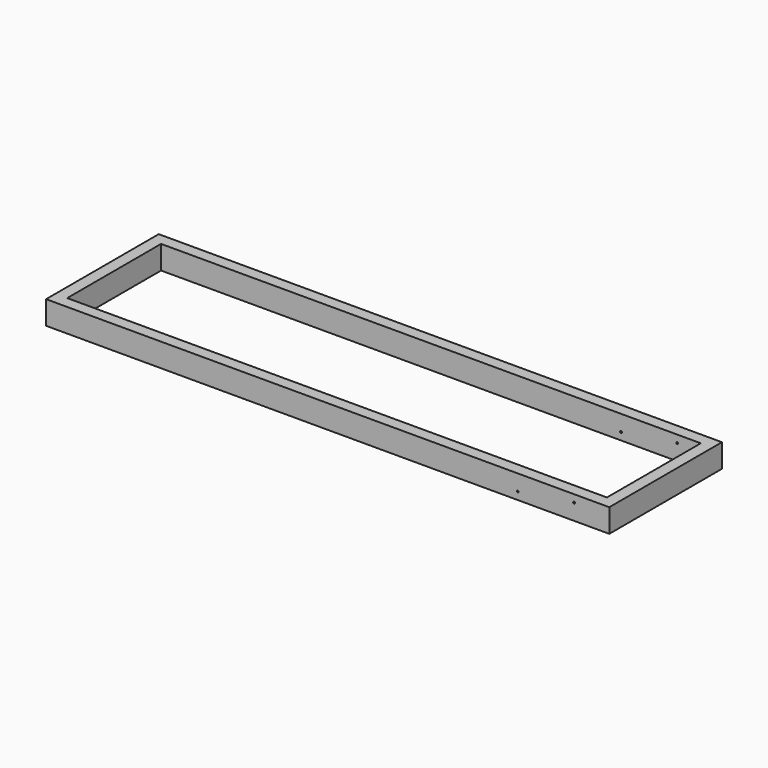
from build123d import *

# Parameters (mm, degrees)
F0_W     = 2400
F0_H     = 600
F0_W_2   = 2300
F0_H_2   = 500
F1_DEPTH = 100
F2_R     = 4
F3_DEPTH = 50
F4_R     = 4
F5_DEPTH = 50


with BuildPart() as f1:
    # F0 (on Top) → F1 (new body)
    with BuildSketch(Plane.XY):
        Rectangle(F0_W, F0_H)
        Rectangle(F0_W_2, F0_H_2, mode=Mode.SUBTRACT)
    extrude(amount=F1_DEPTH)

    # F2 (on face) → F3 (cut, through all)
    with BuildSketch(Plane.XZ.offset(-250)):
        with Locations((810, 32)):
            Circle(F2_R)
        with Locations((1050, 68)):
            Circle(F2_R)
    extrude(amount=-F3_DEPTH, mode=Mode.SUBTRACT)

    # F4 (on face) → F5 (cut, through all)
    with BuildSketch(Plane(origin=(0, -250, 0), x_dir=(-1, 0, 0), z_dir=(0, 1, 0))):
        with Locations((-810, 32)):
            Circle(F4_R)
        with Locations((-1050, 68)):
            Circle(F4_R)
    extrude(amount=-F5_DEPTH, mode=Mode.SUBTRACT)


solid = f1.part
